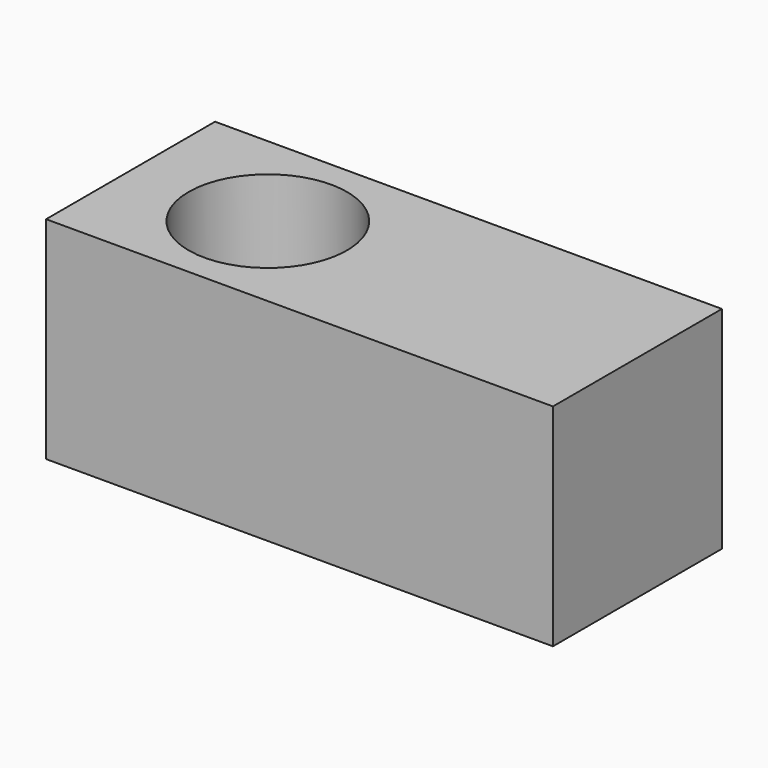
from build123d import *

# Parameters (mm, degrees)
F0_W     = 152.4
F0_H     = 63.5
F1_DEPTH = 31.75
F3_D     = 47.625


with BuildPart() as f1:
    # F0 (on Front) → F1 (new body, symmetric)
    with BuildSketch(Plane.XZ):
        Rectangle(F0_W, F0_H)
    extrude(amount=F1_DEPTH, both=True)

    # F3 (through all)
    with Locations(Plane.XY.offset(31.75)):
        with Locations((-34.925, 0)):
            Hole(F3_D / 2)


solid = f1.part
